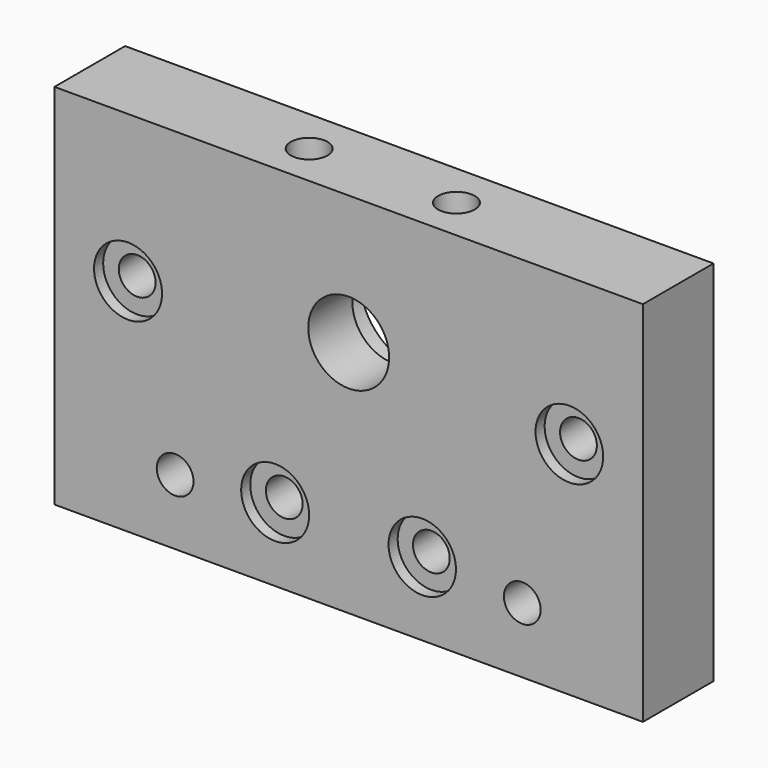
from build123d import *

# Parameters (mm, degrees)
SKETCH019_W     = 80
SKETCH019_H     = 50
SKETCH019_R     = 2.5
SKETCH019_R_2   = 5.5
PAD004_DEPTH    = 12
SKETCH020_R     = 2.5
POCKET012_DEPTH = 11
SKETCH021_R     = 8.05
POCKET013_DEPTH = 4.5
SKETCH022_R     = 4.6
SKETCH022_R_2   = 4.624594
SKETCH022_R_3   = 4.583454
SKETCH022_R_4   = 4.624604
POCKET014_DEPTH = 1.55


with BuildPart() as part:
    # Sketch019 → Pad004 (new body)
    with BuildSketch(Plane(origin=(258, 88, 200), x_dir=(-1, 0, 0), z_dir=(0, 1, 0))):
        with Locations((40, 25)):
            Rectangle(SKETCH019_W, SKETCH019_H)
        with Locations((10, 30)):
            Circle(SKETCH019_R, mode=Mode.SUBTRACT)
        with Locations((30, 10)):
            Circle(SKETCH019_R, mode=Mode.SUBTRACT)
        with Locations((16.4, 8.9)):
            Circle(SKETCH019_R, mode=Mode.SUBTRACT)
        with Locations((50, 10)):
            Circle(SKETCH019_R, mode=Mode.SUBTRACT)
        with Locations((63.6, 8.9)):
            Circle(SKETCH019_R, mode=Mode.SUBTRACT)
        with Locations((70, 30)):
            Circle(SKETCH019_R, mode=Mode.SUBTRACT)
        with Locations((40, 32.4)):
            Circle(SKETCH019_R_2, mode=Mode.SUBTRACT)
    extrude(amount=PAD004_DEPTH)

    # Sketch020 → Pocket012 (cut)
    with BuildSketch(Plane(origin=(258, 88, 250), x_dir=(1, 0, 0), z_dir=(0, 0, 1))):
        with Locations((-30.033846, 5.850095)):
            Circle(SKETCH020_R)
        with Locations((-50.003807, 5.788844)):
            Circle(SKETCH020_R)
    extrude(amount=-POCKET012_DEPTH, mode=Mode.SUBTRACT)

    # Sketch021 → Pocket013 (cut)
    with BuildSketch(Plane(origin=(258, 100, 200), x_dir=(-1, 0, 0), z_dir=(0, 1, 0))):
        with Locations((40, 32.4)):
            Circle(SKETCH021_R)
    extrude(amount=-POCKET013_DEPTH, mode=Mode.SUBTRACT)

    # Sketch022 → Pocket014 (cut)
    with BuildSketch(Plane(origin=(258, 88, 200), x_dir=(-1, 0, 0), z_dir=(0, -1, 0))):
        with Locations((10, -30)):
            Circle(SKETCH022_R)
        with Locations((70, -30)):
            Circle(SKETCH022_R_2)
        with Locations((30, -10)):
            Circle(SKETCH022_R_3)
        with Locations((50, -10)):
            Circle(SKETCH022_R_4)
    extrude(amount=-POCKET014_DEPTH, mode=Mode.SUBTRACT)


solid = part.part
